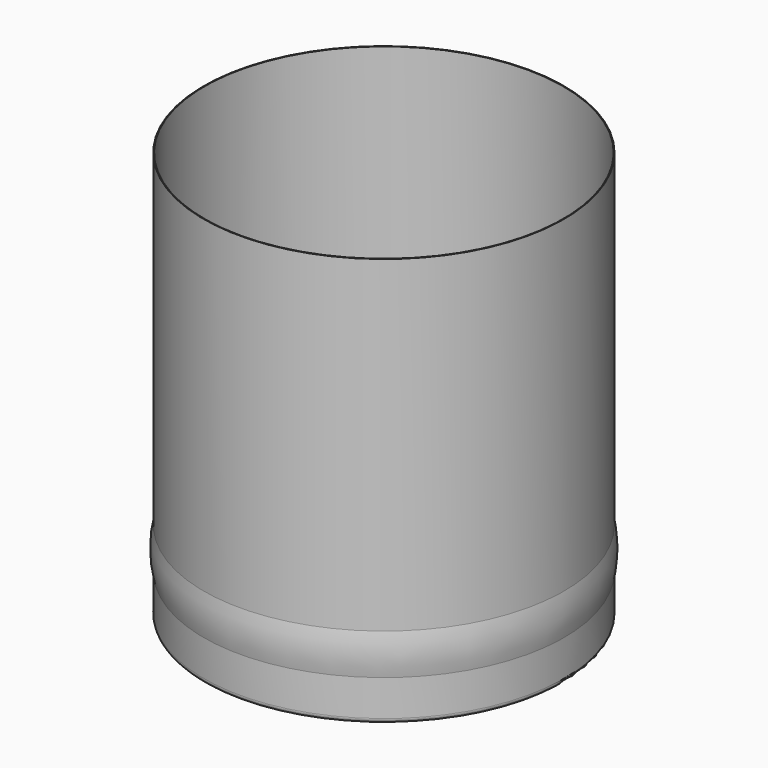
from build123d import *


with BuildPart() as f1:
    # F0 (on Right) → F1 (revolve)
    with BuildSketch(Plane.YZ):
        with BuildLine():
            Line((0, 0.404), (0, 0))
            Line((0, 0), (107, 0))
            ThreePointArc((107, 0), (109.12132, 0.87868), (110, 3))
            Line((110, 3), (110, 25))
            ThreePointArc((110, 25), (111.423797, 37.5), (110, 50))
            Line((110, 50), (110, 250))
            Line((110, 250), (109.596, 250))
            Line((109.596, 250), (109.596, 49.953898))
            ThreePointArc((109.596, 49.953898), (111.019797, 37.5), (109.596, 25.046102))
            Line((109.596, 25.046102), (109.596, 2.994))
            ThreePointArc((109.596, 2.994), (108.837407, 1.162593), (107.006, 0.404))
            Line((107.006, 0.404), (0, 0.404))
        make_face()
    revolve(axis=Axis((0, 0, 0.202), (0, 0, -1)))


solid = f1.part
